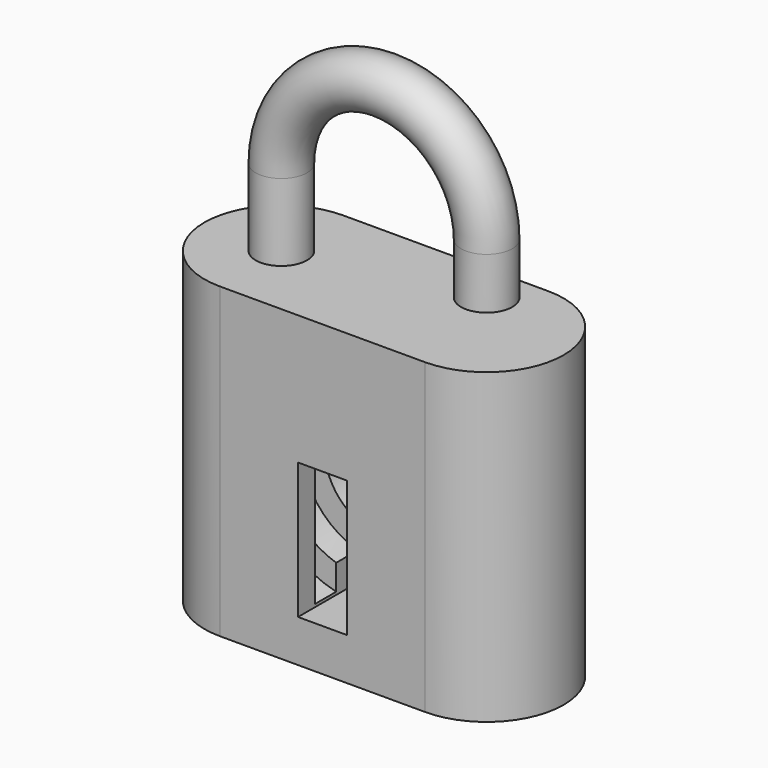
from build123d import *

# Parameters (mm, degrees)
F1_DEPTH = 38.1
F2_W     = 6.0325
F2_H     = 6.0325
F3_DEPTH = 19.051
F4_W     = 6.0325
F4_H     = 10.795
F5_DEPTH = 15.5575
F8_R     = 3.175


with BuildPart() as f1:
    # F0 (on Top) → F1 (new body)
    with BuildSketch(Plane.XY):
        with BuildLine():
            ThreePointArc((12.7000021839, -9.525), (22.225, 1.0919e-06), (12.7, 9.525))
            Line((12.7, 9.525), (-12.7000021839, 9.525))
            ThreePointArc((-12.7000021839, 9.525), (-22.2250021839, -1.0919e-06), (-12.7, -9.525))
            Line((-12.7, -9.525), (12.7000021839, -9.525))
        make_face()
    extrude(amount=F1_DEPTH)

    # F2 (on face) → F3 (cut, through all)
    with BuildSketch(Plane.XZ.offset(9.525)):
        with Locations((0, 19.05)):
            Rectangle(F2_W, F2_H)
    extrude(amount=-F3_DEPTH, mode=Mode.SUBTRACT)

    # F4 (on face) → F5 (cut)
    with BuildSketch(Plane.XZ.offset(9.525)):
        with Locations((0, 10.63625)):
            Rectangle(F4_W, F4_H)
    extrude(amount=-F5_DEPTH, mode=Mode.SUBTRACT)

    # F6 (on Right) → F7 (revolve, cut)
    with BuildSketch(Plane.YZ):
        Polygon((6.0325, 5.23875), (6.0325, 18.415), (-6.9215, 18.415), (-6.9215, 5.23875), (-3.6195, 5.23875), (-3.6195, 8.28675), (-0.3175, 8.28675), (-0.3175, 11.33475), (2.7305, 11.33475), (2.7305, 5.23875), align=None)
    revolve(axis=Axis((0, -0.4445, 18.415), (0, 1, 0)), mode=Mode.SUBTRACT)

    # F10: sweep along a path in F9
    with BuildLine(Plane.XZ) as f10_path:
        Line((-12.7000021839, 38.1), (-12.7000021839, 47.625))
        ThreePointArc((-12.7000021839, 47.625), (-1.0919e-06, 60.3250010919), (12.7, 47.625))
        Line((12.7, 47.625), (12.7, 41.275))
    # F8 (on face) → F10 (sweep)
    with BuildSketch(Plane.XY.offset(38.1)):
        with Locations((-12.7000021839, 0)):
            Circle(F8_R)
    sweep(path=f10_path.line)


solid = f1.part
